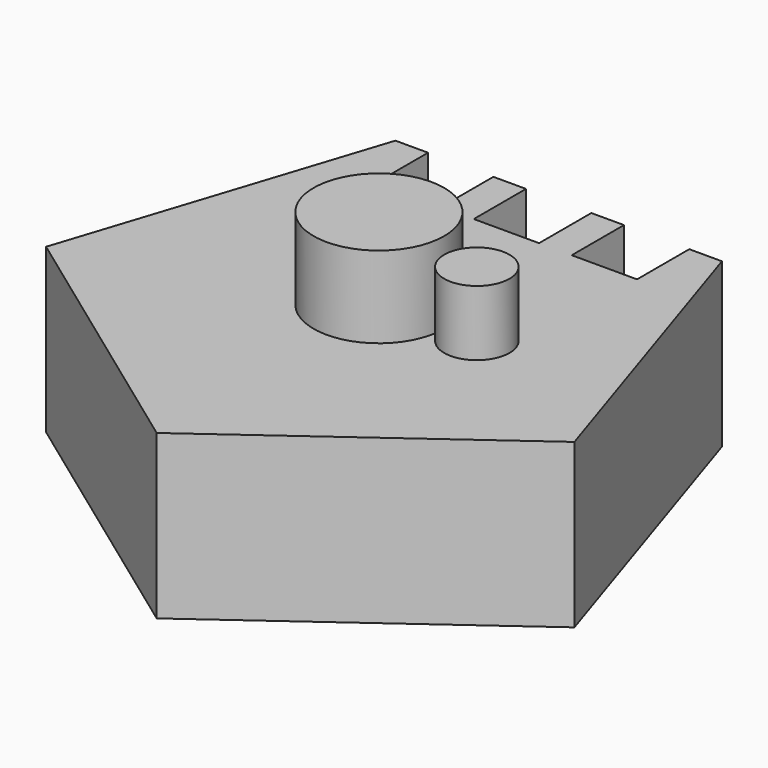
from build123d import *

# Parameters (mm, degrees)
F1_DEPTH = 25
F2_W     = 10
F2_H     = 10
F3_DEPTH = 25
F4_R     = 10
F5_DEPTH = 12.5
F7_R     = 5
F8_DEPTH = 10


with BuildPart() as f1:
    # F0 (on Top) → F1 (new body)
    with BuildSketch(Plane.XY):
        Polygon((-25, 34.409548), (-40.45085, -13.143278), (0, -42.53254), (40.45085, -13.143278), (25, 34.409548), align=None)
    extrude(amount=F1_DEPTH)

    # F2 (on face) → F3 (cut, through all)
    with BuildSketch(Plane.XY.offset(25)):
        with Locations((-15, 29.409548)):
            Rectangle(F2_W, F2_H)
        with Locations((0, 29.409548)):
            Rectangle(F2_W, F2_H)
        with Locations((15, 29.409548)):
            Rectangle(F2_W, F2_H)
    extrude(amount=-F3_DEPTH, mode=Mode.SUBTRACT)


with BuildPart() as f5:
    # F4 (on face) → F5 (new body, symmetric)
    with BuildSketch(Plane.XY.offset(25)):
        Circle(F4_R)
    extrude(amount=F5_DEPTH, both=True)


with BuildPart() as f1_1:
    add(f1.part)

    # F6: cut F5
    add(f5.part, mode=Mode.SUBTRACT)


with BuildPart() as f8:
    # F7 (on face) → F8 (new body)
    with BuildSketch(Plane.XY.offset(25)):
        with Locations((15, 0)):
            Circle(F7_R)
    extrude(amount=F8_DEPTH)


solid = Compound([f5.part, f1_1.part, f8.part])
